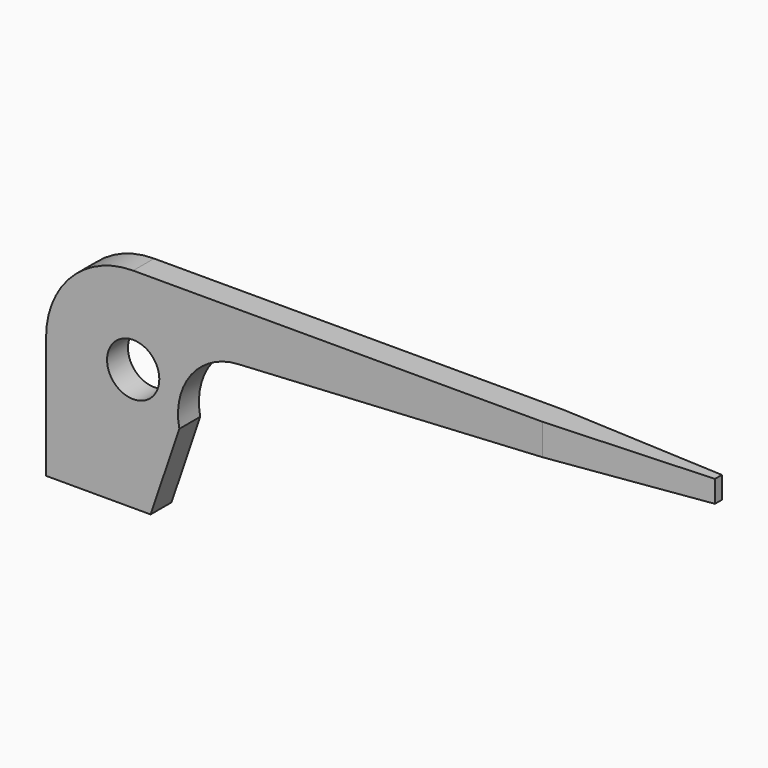
from build123d import *

# Parameters (mm, degrees)
F1_DEPTH = 2.38125
F2_R     = 2.38125
F3_DEPTH = 25.4
F5_DEPTH = 25.4


with BuildPart() as f1:
    # F0 (on Front) → F1 (new body)
    with BuildSketch(Plane.XZ):
        with BuildLine():
            Line((60.325, 19.05), (7.9375, 19.05))
            ThreePointArc((7.9375, 19.05), (2.32484, 16.72516), (0, 11.1125))
            Line((0, 11.1125), (0, 0))
            Line((0, 0), (9.525, 0))
            Line((9.525, 0), (12.144122, 7.72185))
            ThreePointArc((12.144122, 7.72185), (13.224173, 12.410645), (17.480062, 14.655354))
            Line((17.480062, 14.655354), (60.325, 17.05))
            Line((60.325, 17.05), (60.325, 19.05))
        make_face()
    extrude(amount=F1_DEPTH)

    # F2 (on face) → F3 (cut)
    with BuildSketch(Plane.XZ.offset(2.38125)):
        with Locations((7.9375, 11.1125)):
            Circle(F2_R)
    extrude(amount=-F3_DEPTH, mode=Mode.SUBTRACT)

    # F4 (on face) → F5 (cut)
    with BuildSketch(Plane.XY.offset(19.05)):
        Polygon((60.325, 0), (45.24375, 0), (60.325, -0.79375), align=None)
        Polygon((60.325, -2.38125), (60.325, -1.5875), (45.24375, -2.38125), align=None)
    extrude(amount=-F5_DEPTH, mode=Mode.SUBTRACT)


solid = f1.part
